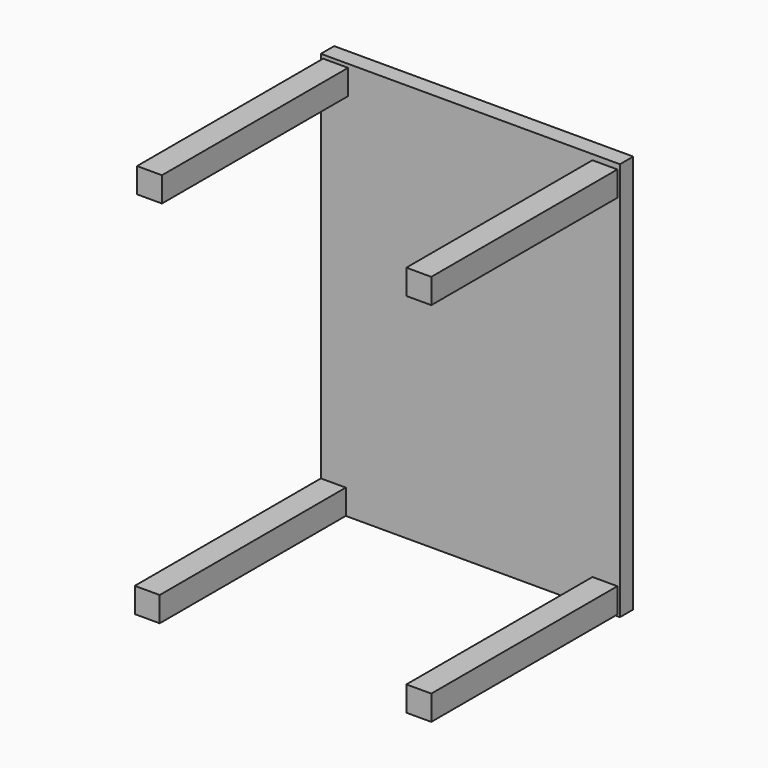
from build123d import *

# Parameters (mm, degrees)
SKETCH_W     = 900
SKETCH_H     = 1200
PAD_DEPTH    = 50
SKETCH001_W  = 75
SKETCH001_H  = 75
PAD001_DEPTH = 750
SKETCH002_W  = 75
SKETCH002_H  = 75
PAD002_DEPTH = 750
SKETCH003_W  = 75
SKETCH003_H  = 75
PAD003_DEPTH = 750
SKETCH004_W  = 75
SKETCH004_H  = 75
PAD004_DEPTH = 750


with BuildPart() as part:
    # Sketch → Pad (new body)
    with BuildSketch(Plane.XZ):
        with Locations((450, 600)):
            Rectangle(SKETCH_W, SKETCH_H)
    extrude(amount=PAD_DEPTH)

    # Sketch001 → Pad001 (join)
    with BuildSketch(Plane.XZ):
        with Locations((37.5, 37.5)):
            Rectangle(SKETCH001_W, SKETCH001_H)
    extrude(amount=PAD001_DEPTH)

    # Sketch002 → Pad002 (join)
    with BuildSketch(Plane.XZ):
        with Locations((44.296024, 1151.794312)):
            Rectangle(SKETCH002_W, SKETCH002_H)
    extrude(amount=PAD002_DEPTH)

    # Sketch003 → Pad003 (join)
    with BuildSketch(Plane.XZ):
        with Locations((854.802246, 1146.189819)):
            Rectangle(SKETCH003_W, SKETCH003_H)
    extrude(amount=PAD003_DEPTH)

    # Sketch004 → Pad004 (join)
    with BuildSketch(Plane.XZ):
        with Locations((854.802002, 42.086505)):
            Rectangle(SKETCH004_W, SKETCH004_H)
    extrude(amount=PAD004_DEPTH)


solid = part.part
